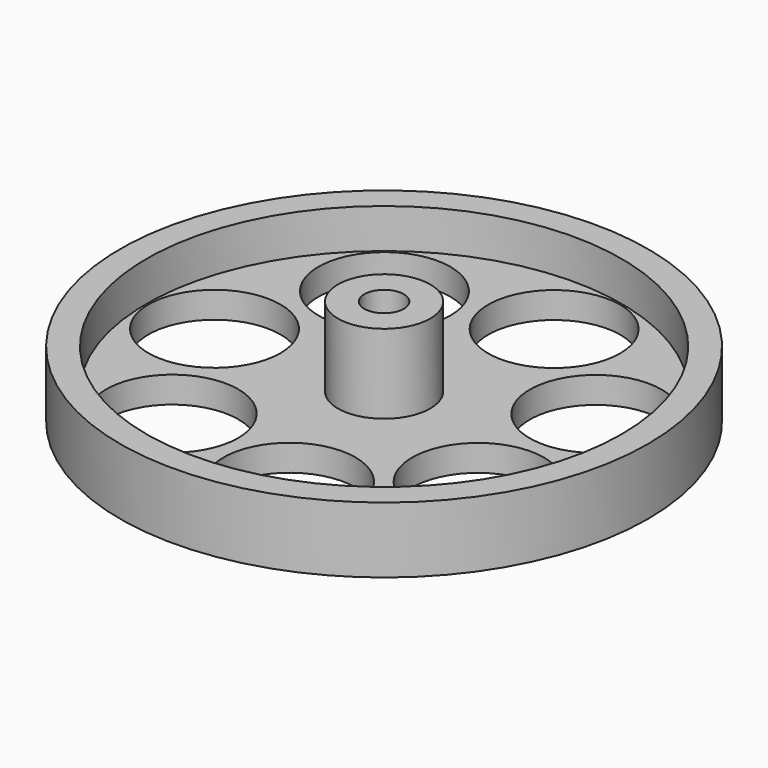
from build123d import *

# Parameters (mm, degrees)
F0_R     = 20
F1_DEPTH = 5
F2_R     = 18
F3_DEPTH = 3
F4_R     = 3.5
F4_R_2   = 1.5
F5_DEPTH = 6
F6_R     = 5
F7_DEPTH = 2


with BuildPart() as f1:
    # F0 (on Top) → F1 (new body)
    with BuildSketch(Plane.XY):
        Circle(F0_R)
    extrude(amount=F1_DEPTH)

    # F2 (on face) → F3 (cut)
    with BuildSketch(Plane.XY.offset(5)):
        Circle(F2_R)
    extrude(amount=-F3_DEPTH, mode=Mode.SUBTRACT)

    # F4 (on face) → F5 (join)
    with BuildSketch(Plane.XY.offset(2)):
        Circle(F4_R)
        Circle(F4_R_2, mode=Mode.SUBTRACT)
    extrude(amount=F5_DEPTH)

    # F6 (on face) → F7 (cut)
    with BuildSketch(Plane(origin=(0, 0, 0), x_dir=(1, 0, 0), z_dir=(0, 0, -1))):
        with Locations((-12.852788, 0)):
            Circle(F6_R)
        with Locations((-8.013582, -10.048714)):
            Circle(F6_R)
        with Locations((2.860014, -12.530542)):
            Circle(F6_R)
        with Locations((11.579962, -5.576616)):
            Circle(F6_R)
        with Locations((11.579962, 5.576616)):
            Circle(F6_R)
        with Locations((2.860014, 12.530542)):
            Circle(F6_R)
        with Locations((-8.013582, 10.048714)):
            Circle(F6_R)
    extrude(amount=-F7_DEPTH, mode=Mode.SUBTRACT)


solid = f1.part
